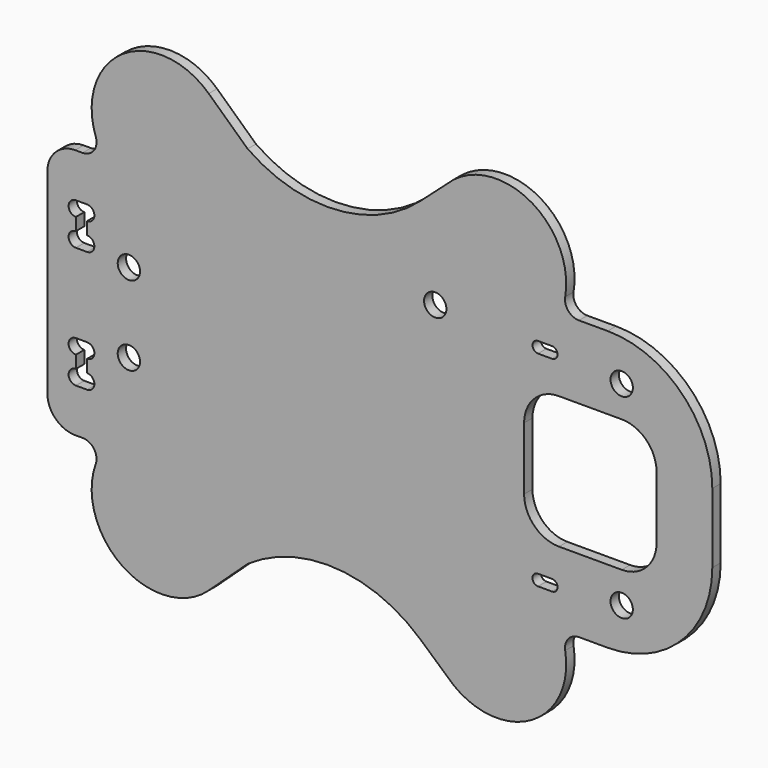
from build123d import *

# Parameters (mm, degrees)
F0_R     = 1.6
F1_DEPTH = 1.5


with BuildPart() as f1:
    # F0 (on Front) → F1 (new body)
    with BuildSketch(Plane.XZ):
        with BuildLine():
            ThreePointArc((33.895837, 22.340272), (28.643297, 32.919956), (16.970563, 31.112698))
            Line((16.970563, 31.112698), (13.096545, 27.662792))
            ThreePointArc((13.096545, 27.662792), (0.969919, 22.633346), (-11.662681, 26.206554))
            Line((-11.662681, 26.206554), (-17.246483, 31.378249))
            ThreePointArc((-17.246483, 31.378249), (-29.552007, 32.386435), (-33.457384, 20.673605))
            ThreePointArc((-33.457384, 20.673605), (-33.705418, 18.848308), (-35.340534, 18))
            Line((-35.340534, 18), (-36.4, 18))
            ThreePointArc((-36.4, 18), (-39.228427, 16.828427), (-40.4, 14))
            Line((-40.4, 14), (-40.4, 0))
            Line((-40.4, 0), (-40.4, -14))
            ThreePointArc((-40.4, -14), (-39.228427, -16.828427), (-36.4, -18))
            Line((-36.4, -18), (-35.340534, -18))
            ThreePointArc((-35.340534, -18), (-33.705418, -18.848308), (-33.457384, -20.673605))
            ThreePointArc((-33.457384, -20.673605), (-29.552007, -32.386435), (-17.246483, -31.378249))
            Line((-17.246483, -31.378249), (-11.662681, -26.206554))
            ThreePointArc((-11.662681, -26.206554), (0.969919, -22.633346), (13.096545, -27.662792))
            Line((13.096545, -27.662792), (16.970563, -31.112698))
            ThreePointArc((16.970563, -31.112698), (28.643297, -32.919956), (33.895837, -22.340272))
            ThreePointArc((33.895837, -22.340272), (34.336883, -20.711696), (35.866678, -20))
            Line((35.866678, -20), (40, -20))
            ThreePointArc((40, -20), (50.606602, -15.606602), (55, -5))
            Line((55, -5), (55, 0))
            Line((55, 0), (55, 5))
            ThreePointArc((55, 5), (50.606602, 15.606602), (40, 20))
            Line((40, 20), (35.866678, 20))
            ThreePointArc((35.866678, 20), (34.336883, 20.711696), (33.895837, 22.340272))
        make_face()
        with BuildLine():
            ThreePointArc((-34.7, -9.6), (-33.65, -10.65), (-34.7, -11.7))
            Line((-34.7, -11.7), (-36.3, -11.7))
            ThreePointArc((-36.3, -11.7), (-37.35, -10.65), (-36.3, -9.6))
            Line((-36.3, -9.6), (-36.3, -7.8))
            ThreePointArc((-36.3, -7.8), (-37.35, -6.75), (-36.3, -5.7))
            Line((-36.3, -5.7), (-34.7, -5.7))
            ThreePointArc((-34.7, -5.7), (-33.65, -6.75), (-34.7, -7.8))
            Line((-34.7, -7.8), (-34.7, -9.6))
        make_face(mode=Mode.SUBTRACT)
        with Locations((-28.7, -5.7)):
            Circle(F0_R, mode=Mode.SUBTRACT)
        with BuildLine():
            Line((30, -13.9), (32, -13.9))
            ThreePointArc((32, -13.9), (32.8, -14.7), (32, -15.5))
            Line((32, -15.5), (30, -15.5))
            ThreePointArc((30, -15.5), (29.2, -14.7), (30, -13.9))
        make_face(mode=Mode.SUBTRACT)
        with Locations((42, -14)):
            Circle(F0_R, mode=Mode.SUBTRACT)
        with Locations((-28.7, 5.7)):
            Circle(F0_R, mode=Mode.SUBTRACT)
        with BuildLine():
            ThreePointArc((-34.7, 7.8), (-33.65, 6.75), (-34.7, 5.7))
            Line((-34.7, 5.7), (-36.3, 5.7))
            ThreePointArc((-36.3, 5.7), (-37.35, 6.75), (-36.3, 7.8))
            Line((-36.3, 7.8), (-36.3, 9.6))
            ThreePointArc((-36.3, 9.6), (-37.35, 10.65), (-36.3, 11.7))
            Line((-36.3, 11.7), (-34.7, 11.7))
            ThreePointArc((-34.7, 11.7), (-33.65, 10.65), (-34.7, 9.6))
            Line((-34.7, 9.6), (-34.7, 7.8))
        make_face(mode=Mode.SUBTRACT)
        with Locations((15.25, 15.25)):
            Circle(F0_R, mode=Mode.SUBTRACT)
        with BuildLine():
            ThreePointArc((30, 13.9), (29.2, 14.7), (30, 15.5))
            Line((30, 15.5), (32, 15.5))
            ThreePointArc((32, 15.5), (32.8, 14.7), (32, 13.9))
            Line((32, 13.9), (30, 13.9))
        make_face(mode=Mode.SUBTRACT)
        with BuildLine():
            Line((28, -4.5), (28, 0))
            Line((28, 0), (28, 4.5))
            ThreePointArc((28, 4.5), (29.464466, 8.035534), (33, 9.5))
            Line((33, 9.5), (42, 9.5))
            ThreePointArc((42, 9.5), (45.535534, 8.035534), (47, 4.5))
            Line((47, 4.5), (47, 0))
            Line((47, 0), (47, -4.5))
            ThreePointArc((47, -4.5), (45.535534, -8.035534), (42, -9.5))
            Line((42, -9.5), (33, -9.5))
            ThreePointArc((33, -9.5), (29.464466, -8.035534), (28, -4.5))
        make_face(mode=Mode.SUBTRACT)
        with Locations((42, 14)):
            Circle(F0_R, mode=Mode.SUBTRACT)
    extrude(amount=F1_DEPTH)


solid = f1.part
